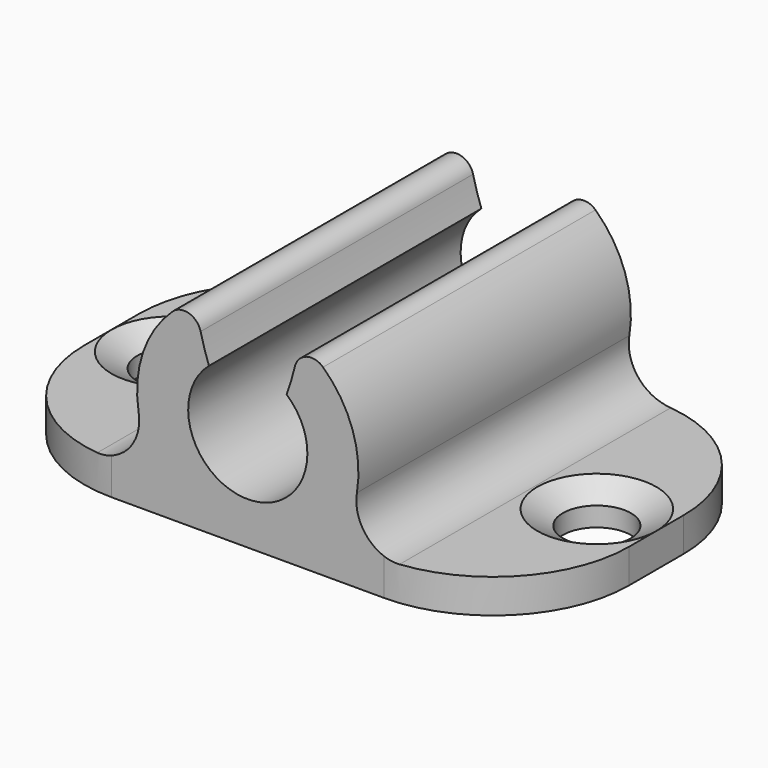
from build123d import *

# Parameters (mm, degrees)
F1_DEPTH       = 20
F2_R           = 1
F3_R           = 8
F5_D           = 4
F5_CSINK_D     = 7
F5_CSINK_ANGLE = 120


with BuildPart() as f1:
    # F0 (on Front) → F1 (new body)
    with BuildSketch(Plane.XZ):
        with BuildLine():
            Line((-16, 2), (-16, 0))
            Line((-16, 0), (16, 0))
            Line((16, 0), (16, 2))
            Line((16, 2), (8.8741196746, 2))
            ThreePointArc((8.8741196746, 2), (6.9647131351, 2.8862569391), (6.4090864317, 4.9166666667))
            ThreePointArc((6.4090864317, 4.9166666667), (5.8371497595, 8.8596647854), (3.0720549025, 11.7282177574))
            add(Edge.make_bspline(
                [(2.2805033402, 8.6550526389), (2.7656288893, 9.9644009916), (3.0720549025, 11.7282177574)],
                knots=[0.7096553764, 0.7096553764, 0.7096553764, 1.0711038861, 1.0711038861, 1.0711038861], degree=2, weights=[1, 0.9837137717, 1]))
            ThreePointArc((2.2805033402, 8.6550526389), (0, 2.5), (-2.2805033402, 8.6550526389))
            add(Edge.make_bspline(
                [(-3.0720549025, 11.7282177574), (-2.7656288893, 9.9644009916), (-2.2805033402, 8.6550526389)],
                knots=[5.2120814211, 5.2120814211, 5.2120814211, 5.5735299308, 5.5735299308, 5.5735299308], degree=2, weights=[1, 0.9837137717, 1]))
            ThreePointArc((-3.0720549025, 11.7282177574), (-5.8371497595, 8.8596647854), (-6.4090864317, 4.9166666667))
            ThreePointArc((-6.4090864317, 4.9166666667), (-6.9647131351, 2.8862569391), (-8.8741196746, 2))
            Line((-8.8741196746, 2), (-16, 2))
        make_face()
    extrude(amount=F1_DEPTH)

    # F2
    f2_edges = [f1.edges().sort_by_distance(p)[0] for p in [
        (-3.072055, -10, 11.728218),
        (3.072055, -10, 11.728218),
    ]]
    fillet(f2_edges, radius=F2_R)

    # F3
    f3_edges = [f1.edges().sort_by_distance(p)[0] for p in [
        (-16, -20, 1),
        (16, -20, 1),
        (16, 0, 1),
        (-16, 0, 1),
    ]]
    fillet(f3_edges, radius=F3_R)

    # F5 (through all)
    with Locations(Plane.XY.offset(2)):
        with Locations((-12.5, -10), (12.5, -10)):
            CounterSinkHole(F5_D / 2, F5_CSINK_D / 2, counter_sink_angle=F5_CSINK_ANGLE)


solid = f1.part
